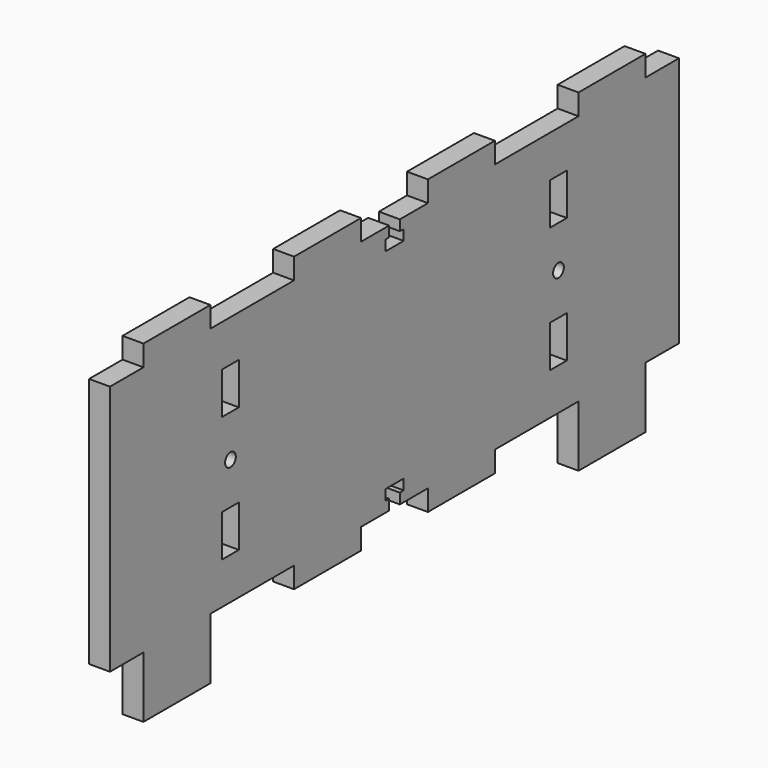
from build123d import *

# Parameters (mm, degrees)
F1_W     = 5
F1_H     = 10
F1_R     = 1.6
F1_W_2   = 20
F1_H_2   = 14.6167501807
F1_H_3   = 5
F2_DEPTH = 5


with BuildPart() as f2:
    # F1 (on Right) → F2 (new body)
    with BuildSketch(Plane.YZ):
        Polygon((0, 60), (0, 0), (10, 0), (30, 0), (55, 0), (75, 0), (83.4, 0), (83.4, 2.5), (82.25, 2.5), (82.25, 5), (85, 5), (87.75, 5), (87.75, 2.5), (86.6, 2.5), (86.6, 0), (95, 0), (115, 0), (140, 0), (160, 0), (170, 0), (170, 60), (160, 60), (140, 60), (115, 60), (95, 60), (86.6, 60), (86.6, 57.5), (87.75, 57.5), (87.75, 55), (85, 55), (82.25, 55), (82.25, 57.5), (83.4, 57.5), (83.4, 60), (75, 60), (55, 60), (30, 60), (10, 60), align=None)
        with Locations((36, 15)):
            Rectangle(F1_W, F1_H, mode=Mode.SUBTRACT)
        with Locations((134, 15)):
            Rectangle(F1_W, F1_H, mode=Mode.SUBTRACT)
        with Locations((36, 30)):
            Circle(F1_R, mode=Mode.SUBTRACT)
        with Locations((36, 45)):
            Rectangle(F1_W, F1_H, mode=Mode.SUBTRACT)
        with Locations((134, 30)):
            Circle(F1_R, mode=Mode.SUBTRACT)
        with Locations((134, 45)):
            Rectangle(F1_W, F1_H, mode=Mode.SUBTRACT)
        with Locations((20, -7.3083750904)):
            Rectangle(F1_W_2, F1_H_2)
        with Locations((20, 62.5)):
            Rectangle(F1_W_2, F1_H_3)
        with Locations((65, -2.5)):
            Rectangle(F1_W_2, F1_H_3)
        with Locations((65, 62.5)):
            Rectangle(F1_W_2, F1_H_3)
        with Locations((105, -2.5)):
            Rectangle(F1_W_2, F1_H_3)
        with Locations((105, 62.5)):
            Rectangle(F1_W_2, F1_H_3)
        with Locations((150, -7.3083750904)):
            Rectangle(F1_W_2, F1_H_2)
        with Locations((150, 62.5)):
            Rectangle(F1_W_2, F1_H_3)
    extrude(amount=F2_DEPTH)


solid = f2.part
